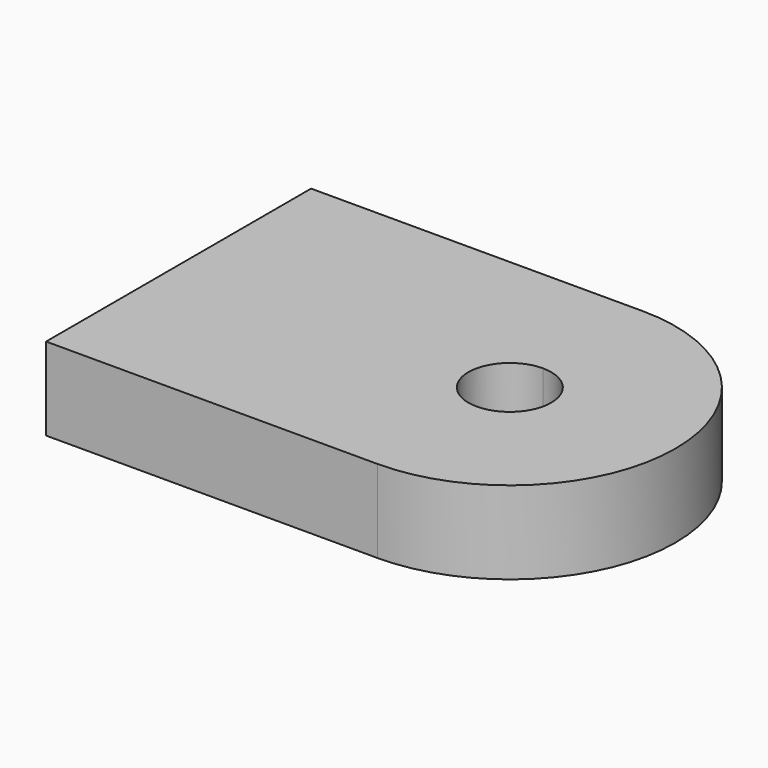
from build123d import *

# Parameters (mm, degrees)
F1_DEPTH = 6.35


with BuildPart() as f1:
    # F0 (on Top) → F1 (new body)
    with BuildSketch(Plane.XY):
        with BuildLine():
            Line((-12.7, 12.7), (-12.7, -12.7))
            Line((-12.7, -12.7), (12.7, -12.7))
            Line((12.7, -12.7), (12.7, -3.175))
            ThreePointArc((12.7, -3.175), (9.525, 0), (12.7, 3.175))
            Line((12.7, 3.175), (12.7, 12.7))
            Line((12.7, 12.7), (-12.7, 12.7))
        make_face()
        with BuildLine():
            Line((12.7, -3.175), (12.7, -12.7))
            ThreePointArc((12.7, -12.7), (25.4, 0), (12.7, 12.7))
            Line((12.7, 12.7), (12.7, 3.175))
            ThreePointArc((12.7, 3.175), (14.945064, 2.245064), (15.875, 0))
            ThreePointArc((15.875, 0), (14.945064, -2.245064), (12.7, -3.175))
        make_face()
    extrude(amount=F1_DEPTH)


solid = f1.part
